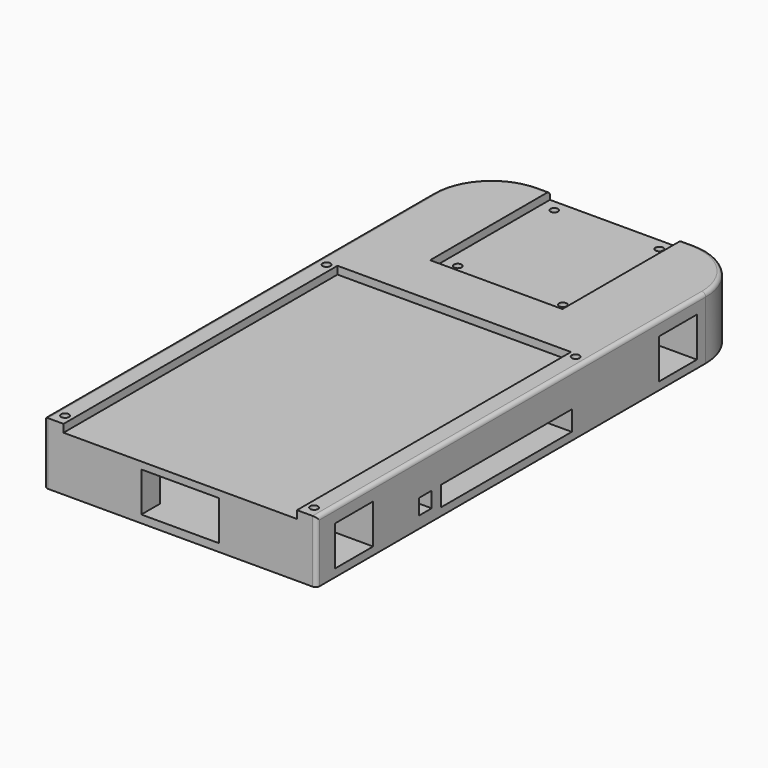
from build123d import *

# Parameters (mm, degrees)
BOX_W           = 70
BOX_H           = 140
BOX_DEPTH       = 16
SKETCH_R        = 1
POCKET_DEPTH    = 20
SKETCH001_W     = 12.2
SKETCH001_H     = 10.2
SKETCH001_W_2   = 42
SKETCH001_H_2   = 5.1
POCKET001_DEPTH = 75
SKETCH002_W     = 20
SKETCH002_H     = 10.2
POCKET002_DEPTH = 140
SKETCH003_W     = 34
SKETCH003_H     = 38.5
SKETCH003_W_2   = 60
SKETCH003_H_2   = 90
POCKET003_DEPTH = 2
SKETCH004_W     = 4
SKETCH004_H     = 4
POCKET004_DEPTH = 80
FILLET_R        = 15
FILLET001_R     = 1


with BuildPart() as part:
    # Box → Box (new body)
    with BuildSketch(Plane.XY):
        with Locations((35, 70)):
            Rectangle(BOX_W, BOX_H)
    extrude(amount=BOX_DEPTH)

    # Sketch (on Face6 of BaseFeature) → Pocket (cut)
    with BuildSketch(Plane.XY.offset(16)):
        with Locations((3, 3)):
            Circle(SKETCH_R)
        with Locations((67, 3)):
            Circle(SKETCH_R)
        with Locations((3, 87)):
            Circle(SKETCH_R)
        with Locations((67, 87)):
            Circle(SKETCH_R)
        with Locations((21.5, 137)):
            Circle(SKETCH_R)
        with Locations((48.5, 137)):
            Circle(SKETCH_R)
        with Locations((21.5, 106)):
            Circle(SKETCH_R)
        with Locations((48.5, 106)):
            Circle(SKETCH_R)
    extrude(amount=-POCKET_DEPTH, mode=Mode.SUBTRACT)

    # Sketch001 → Pocket001 (cut)
    with BuildSketch(Plane.YZ):
        with Locations((12.1, 7.1)):
            Rectangle(SKETCH001_W, SKETCH001_H)
        with Locations((116.1, 7.1)):
            Rectangle(SKETCH001_W, SKETCH001_H)
        with Locations((61, 4.55)):
            Rectangle(SKETCH001_W_2, SKETCH001_H_2)
    extrude(amount=POCKET001_DEPTH, mode=Mode.SUBTRACT)

    # Sketch002 → Pocket002 (cut)
    with BuildSketch(Plane.XZ):
        with Locations((35, 7.1)):
            Rectangle(SKETCH002_W, SKETCH002_H)
    extrude(amount=-POCKET002_DEPTH, mode=Mode.SUBTRACT)

    # Sketch003 (on Face3 of Pocket002) → Pocket003 (cut)
    with BuildSketch(Plane.XY.offset(16)):
        with Locations((35, 120.75)):
            Rectangle(SKETCH003_W, SKETCH003_H)
        with Locations((35, 43)):
            Rectangle(SKETCH003_W_2, SKETCH003_H_2)
    extrude(amount=-POCKET003_DEPTH, mode=Mode.SUBTRACT)

    # Sketch004 (on Face18 of Pocket003) → Pocket004 (cut)
    with BuildSketch(Plane.YZ.offset(70)):
        with Locations((35, 5)):
            Rectangle(SKETCH004_W, SKETCH004_H)
    extrude(amount=-POCKET004_DEPTH, mode=Mode.SUBTRACT)

    # Fillet
    fillet_edges = [part.edges().sort_by_distance(p)[0] for p in [
        (0, 140, 8),
        (70, 140, 8),
    ]]
    fillet(fillet_edges, radius=FILLET_R)

    # Fillet001
    fillet001_edges = [part.edges().sort_by_distance(p)[0] for p in [
        (70, 0, 8),
        (0, 0, 8),
        (70, 62.5, 16),
        (0, 62.5, 16),
        (65.606602, 135.606602, 16),
        (53.5, 140, 16),
        (16.5, 140, 16),
        (4.393398, 135.606602, 16),
    ]]
    fillet(fillet001_edges, radius=FILLET001_R)


solid = part.part
